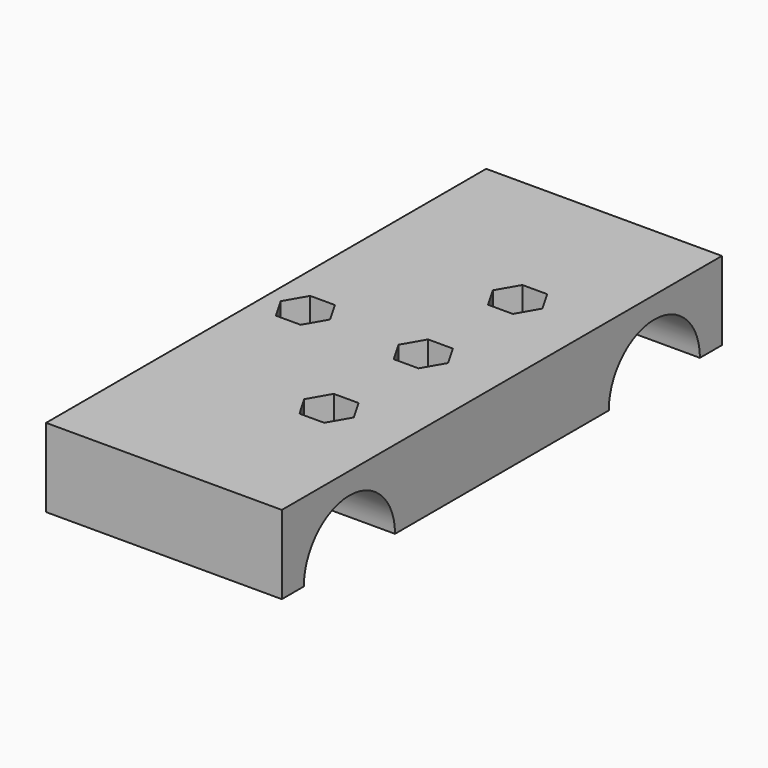
from build123d import *

# Parameters (mm, degrees)
SKETCH_W        = 60
SKETCH_H        = 140
PAD_DEPTH       = 20
SKETCH001_R     = 14.5
POCKET_DEPTH    = 3
SKETCH002_R     = 17.1
POCKET001_DEPTH = 33
SKETCH003_R     = 14.5
POCKET002_DEPTH = 24.001
POCKET003_DEPTH = 6.8
SKETCH005_R     = 3.5
POCKET004_DEPTH = 13.201


with BuildPart() as part:
    # Sketch → Pad (new body)
    with BuildSketch(Plane.XY):
        with Locations((10, 0)):
            Rectangle(SKETCH_W, SKETCH_H)
    extrude(amount=PAD_DEPTH)

    # Sketch001 → Pocket (cut)
    with BuildSketch(Plane(origin=(-20, 0, 0), x_dir=(0, -1, 0), z_dir=(-1, 0, 0))):
        with Locations((-48.5, 0)):
            Circle(SKETCH001_R)
        with Locations((48.5, 0)):
            Circle(SKETCH001_R)
    extrude(amount=-POCKET_DEPTH, mode=Mode.SUBTRACT)

    # Sketch002 → Pocket001 (cut)
    with BuildSketch(Plane(origin=(-17, 0, 0), x_dir=(0, -1, 0), z_dir=(-1, 0, 0))):
        with Locations((-48.5, 0)):
            Circle(SKETCH002_R)
        with Locations((48.5, 0)):
            Circle(SKETCH002_R)
    extrude(amount=-POCKET001_DEPTH, mode=Mode.SUBTRACT)

    # Sketch003 → Pocket002 (cut, through all)
    with BuildSketch(Plane(origin=(16, 0, 0), x_dir=(0, -1, 0), z_dir=(-1, 0, 0))):
        with Locations((-48.5, 0)):
            Circle(SKETCH003_R)
        with Locations((48.5, 0)):
            Circle(SKETCH003_R)
    extrude(amount=-POCKET002_DEPTH, mode=Mode.SUBTRACT)

    # Sketch004 → Pocket003 (cut)
    with BuildSketch(Plane.XY.offset(20)):
        Polygon((-36.85, -5.45596), (-33.7, 0), (-36.85, 5.45596), (-43.15, 5.45596), (-46.3, 0), (-43.15, -5.45596), align=None)
        Polygon((23.15, 5.45596), (16.85, 5.45596), (13.7, 0), (16.85, -5.45596), (23.15, -5.45596), (26.3, 0), align=None)
        Polygon((-3.7, 0), (-6.85, 5.45596), (-13.15, 5.45596), (-16.3, 0), (-13.15, -5.45596), (-6.85, -5.45596), align=None)
        Polygon((-33.7, 30), (-36.85, 35.45596), (-43.15, 35.45596), (-46.3, 30), (-43.15, 24.54404), (-36.85, 24.54404), align=None)
        Polygon((13.7, 30), (16.85, 24.54404), (23.15, 24.54404), (26.3, 30), (23.15, 35.45596), (16.85, 35.45596), align=None)
        Polygon((-33.7, -30), (-36.85, -24.54404), (-43.15, -24.54404), (-46.3, -30), (-43.15, -35.45596), (-36.85, -35.45596), align=None)
        Polygon((13.7, -30), (16.85, -35.45596), (23.15, -35.45596), (26.3, -30), (23.15, -24.54404), (16.85, -24.54404), align=None)
    extrude(amount=-POCKET003_DEPTH, mode=Mode.SUBTRACT)

    # Sketch005 → Pocket004 (cut, through all)
    with BuildSketch(Plane.XY.offset(13.2)):
        with Locations((-40, 30)):
            Circle(SKETCH005_R)
        with Locations((20, 30)):
            Circle(SKETCH005_R)
        with Locations((20, -30)):
            Circle(SKETCH005_R)
        with Locations((-40, -30)):
            Circle(SKETCH005_R)
        with Locations((-40, 0)):
            Circle(SKETCH005_R)
        with Locations((20, 0)):
            Circle(SKETCH005_R)
        with Locations((-10, 0)):
            Circle(SKETCH005_R)
    extrude(amount=-POCKET004_DEPTH, mode=Mode.SUBTRACT)


solid = part.part
